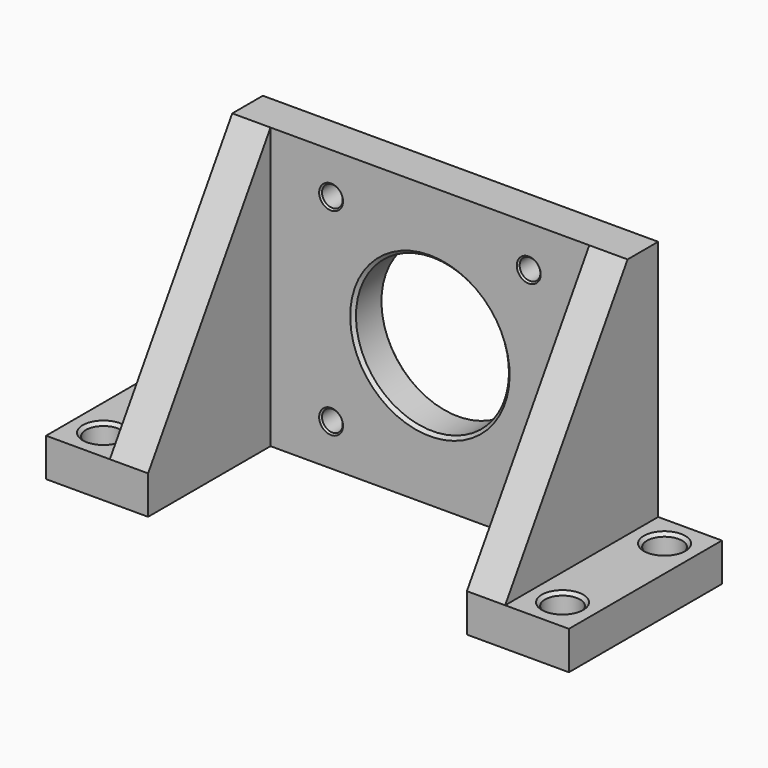
from build123d import *

# Parameters (mm, degrees)
PAD_DEPTH       = 41
SKETCH001_W     = 25
SKETCH001_H     = 50
POCKET_DEPTH    = 44.001
SKETCH002_W     = 45
SKETCH002_H     = 10
POCKET001_DEPTH = 30.001
SKETCH003_R     = 12
SKETCH003_R_2   = 1.625
POCKET002_DEPTH = 30.001
SKETCH004_R     = 2.75
POCKET003_DEPTH = 6.001
CHAMFER_SIZE    = 0.5
CHAMFER001_SIZE = 0.5
CHAMFER002_SIZE = 0.25


with BuildPart() as part:
    # Sketch → Pad (new body, symmetric)
    with BuildSketch(Plane.YZ):
        Polygon((0, 44), (0, 0), (-30, 0), (-30, 6), (-6, 44), align=None)
    extrude(amount=PAD_DEPTH, both=True)

    # Sketch001 → Pocket (cut, through all)
    with BuildSketch(Plane.YX):
        with Locations((-18.5, 0)):
            Rectangle(SKETCH001_W, SKETCH001_H)
    extrude(amount=-POCKET_DEPTH, mode=Mode.SUBTRACT)

    # Sketch002 → Pocket001 (cut, through all)
    with BuildSketch(Plane.ZX):
        with Locations((28.5, 36)):
            Rectangle(SKETCH002_W, SKETCH002_H)
        with Locations((28.5, -36)):
            Rectangle(SKETCH002_W, SKETCH002_H)
    extrude(amount=-POCKET001_DEPTH, mode=Mode.SUBTRACT)

    # Sketch003 → Pocket002 (cut, through all)
    with BuildSketch(Plane.ZX):
        with Locations((22, 0)):
            Circle(SKETCH003_R)
        with Locations((6.5, 15.5)):
            Circle(SKETCH003_R_2)
        with Locations((37.5, 15.5)):
            Circle(SKETCH003_R_2)
        with Locations((6.5, -15.5)):
            Circle(SKETCH003_R_2)
        with Locations((37.5, -15.5)):
            Circle(SKETCH003_R_2)
    extrude(amount=-POCKET002_DEPTH, mode=Mode.SUBTRACT)

    # Sketch004 → Pocket003 (cut, through all)
    with BuildSketch(Plane(origin=(0, 0, 6), x_dir=(0, -1, 0), z_dir=(0, 0, 1))):
        with Locations((5, 36)):
            Circle(SKETCH004_R)
        with Locations((25, 36)):
            Circle(SKETCH004_R)
        with Locations((5, -36)):
            Circle(SKETCH004_R)
        with Locations((25, -36)):
            Circle(SKETCH004_R)
    extrude(amount=-POCKET003_DEPTH, mode=Mode.SUBTRACT)

    # Chamfer
    chamfer_edges = [part.edges().sort_by_distance(p)[0] for p in [
        (36, -22.25, 6),
        (36, -2.25, 6),
        (-36, -22.25, 6),
        (-36, -2.25, 6),
    ]]
    chamfer(chamfer_edges, length=CHAMFER_SIZE)

    # Chamfer001
    chamfer001_edges = [part.edges().sort_by_distance(p)[0] for p in [
        (0, -6, 10),
        (0, 0, 10),
    ]]
    chamfer(chamfer001_edges, length=CHAMFER001_SIZE)

    # Chamfer002
    chamfer002_edges = [part.edges().sort_by_distance(p)[0] for p in [
        (15.5, 0, 35.875),
        (15.5, 0, 4.875),
        (-15.5, 0, 35.875),
        (-15.5, 0, 4.875),
        (15.5, -6, 35.875),
        (15.5, -6, 4.875),
        (-15.5, -6, 4.875),
        (-15.5, -6, 35.875),
    ]]
    chamfer(chamfer002_edges, length=CHAMFER002_SIZE)


solid = part.part
